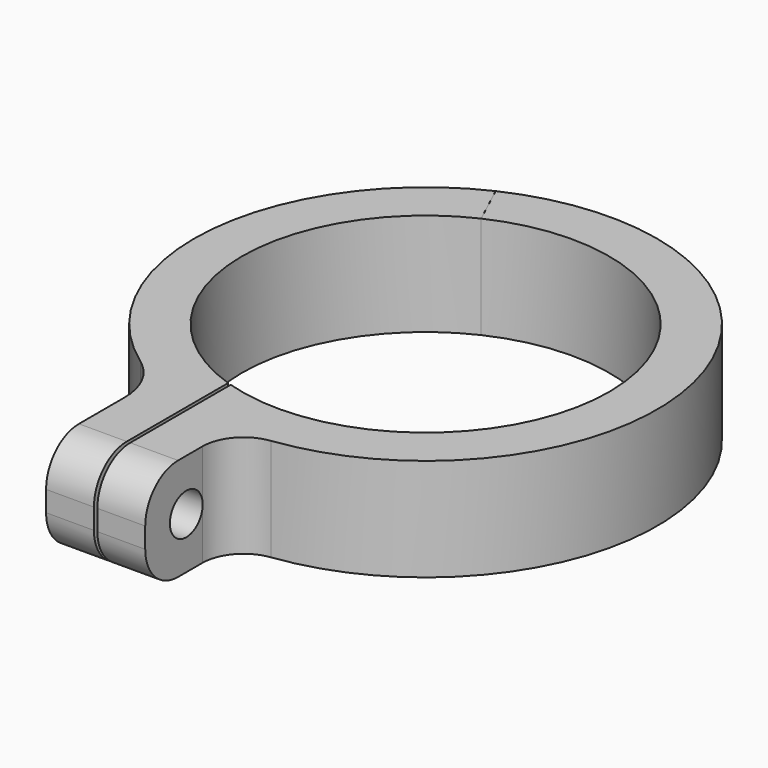
from build123d import *

# Parameters (mm, degrees)
F1_DEPTH       = 15
F2_R           = 6
F3_R           = 10
F4_R           = 6
F5_R           = 3
F6_DEPTH       = 49.351
F8_DEPTH       = 15.0010001
F9_R           = 1.55
F10_DEPTH      = 7
F10_DEPTH_BACK = 3.8
F11_R          = 2.7
F12_DEPTH      = 4
F12_TAPER      = 2
F13_R          = 2.9
F14_DEPTH      = 44.8104316782


with BuildPart() as f1:
    # F0 (on Top) → F1 (new body)
    with BuildSketch(Plane.XY):
        with BuildLine():
            Line((-1, -50), (-1, -33.835225727))
            ThreePointArc((-1, -33.835225727), (8.4595546822, 32.7758819039), (-15.5, -30.0927316806))
            Line((-15.5, -30.0927316806), (-15.5, -50))
            Line((-15.5, -50), (-8.5, -50))
            Line((-8.5, -50), (-8.5, -25.4690498449))
            ThreePointArc((-8.5, -25.4690498449), (8.2503949294, 25.5509977009), (-8, -25.6304994099))
            Line((-8, -25.6304994099), (-8, -50))
            Line((-8, -50), (-1, -50))
        make_face()
    extrude(amount=F1_DEPTH)

    # F2
    f2_edges = [f1.edges().sort_by_distance(p)[0] for p in [
        (-12, -50, 15),
        (-4.5, -50, 15),
        (-12, -50, 0),
        (-4.5, -50, 0),
    ]]
    fillet(f2_edges, radius=F2_R)

    # F3
    f3_edges = [f1.edges().sort_by_distance(p)[0] for p in [
        (-15.5, -30.092732, 7.5),
    ]]
    fillet(f3_edges, radius=F3_R)

    # F4
    f4_edges = [f1.edges().sort_by_distance(p)[0] for p in [
        (-1, -33.835226, 7.5),
    ]]
    fillet(f4_edges, radius=F4_R)

    # F5 (on face) → F6 (cut, through all)
    with BuildSketch(Plane(origin=(-15.5, 0, 0), x_dir=(0, -1, 0), z_dir=(-1, 0, 0))):
        with Locations((42.5, 7.5)):
            Circle(F5_R)
    extrude(amount=-F6_DEPTH, mode=Mode.SUBTRACT)

    # F7 (on Top) → F8 (cut, through all)
    with BuildSketch(Plane.XY):
        Polygon((-15.5682038442, 33.3861208837), (0, 0), (0.0066230902, 0.0094587531), (-15.561580754, 33.3955796368), align=None)
    extrude(amount=F8_DEPTH, mode=Mode.SUBTRACT)

    # F9 (on face) → F10 (cut, two sides)
    with BuildSketch(Plane(origin=(0, 0, 0), x_dir=(-0.4226182617, 0.906307787, 0), z_dir=(0.906307787, 0.4226182617, 0))) as f10_sk:
        with Locations((30.35, 10.95)):
            Circle(F9_R)
        with Locations((30.35, 4.05)):
            Circle(F9_R)
    extrude(amount=-F10_DEPTH, mode=Mode.SUBTRACT)
    extrude(f10_sk.sketch, amount=F10_DEPTH_BACK, mode=Mode.SUBTRACT)

    # F11 (on face) → F12 (cut)
    with BuildSketch(Plane(origin=(0.0090630779, 0.0042261826, 0), x_dir=(0.4226182617, -0.906307787, 0), z_dir=(-0.906307787, -0.4226182617, 0))):
        with Locations((-30.35, 10.95)):
            Circle(F11_R)
        with Locations((-30.35, 4.05)):
            Circle(F11_R)
    extrude(amount=-F12_DEPTH, taper=F12_TAPER, mode=Mode.SUBTRACT)

    # F13 (on face) → F14 (cut, through all)
    with BuildSketch(Plane(origin=(-6.3441545093, -2.9583278322, 0), x_dir=(-0.4226182617, 0.906307787, 0), z_dir=(0.906307787, 0.4226182617, 0))):
        with Locations((30.35, 10.95)):
            Circle(F13_R)
        with Locations((30.35, 4.05)):
            Circle(F13_R)
    extrude(amount=-F14_DEPTH, mode=Mode.SUBTRACT)


solid = f1.part
